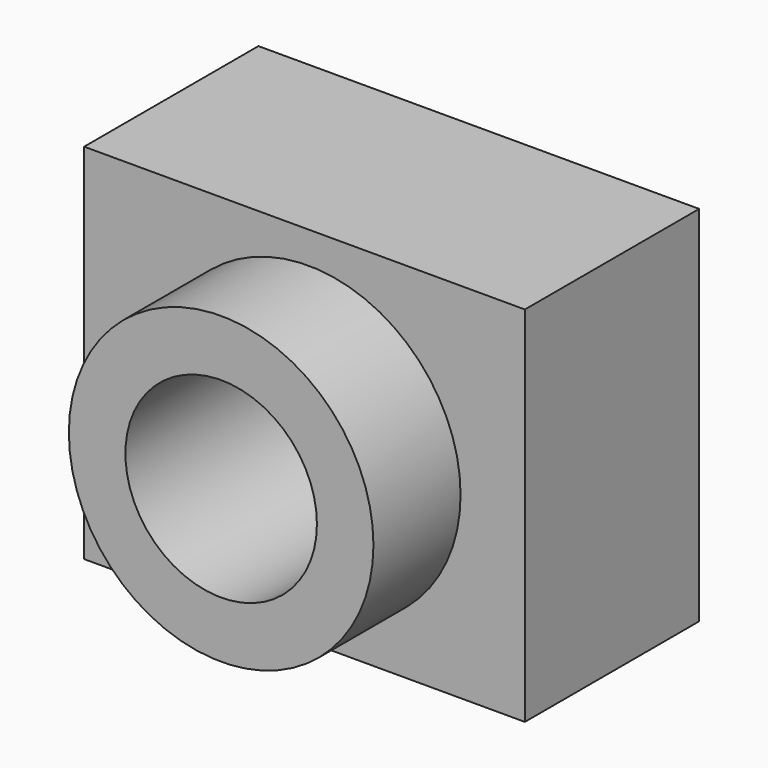
from build123d import *

# Parameters (mm, degrees)
F0_R     = 17.758511
F0_R_2   = 11.167133
F1_DEPTH = 38.1
F0_W     = 51.393282
F0_H     = 42.341057
F2_DEPTH = 25.4


with BuildPart() as f1:
    # F0 (on Front) → F1 (new body)
    with BuildSketch(Plane.XZ):
        Circle(F0_R)
        Circle(F0_R_2, mode=Mode.SUBTRACT)
    extrude(amount=F1_DEPTH)

    # F0 (on Front) → F2 (join)
    with BuildSketch(Plane.XZ):
        with Locations((-0.438012, 0.292006)):
            Rectangle(F0_W, F0_H)
        Circle(F0_R, mode=Mode.SUBTRACT)
    extrude(amount=F2_DEPTH)


solid = f1.part
